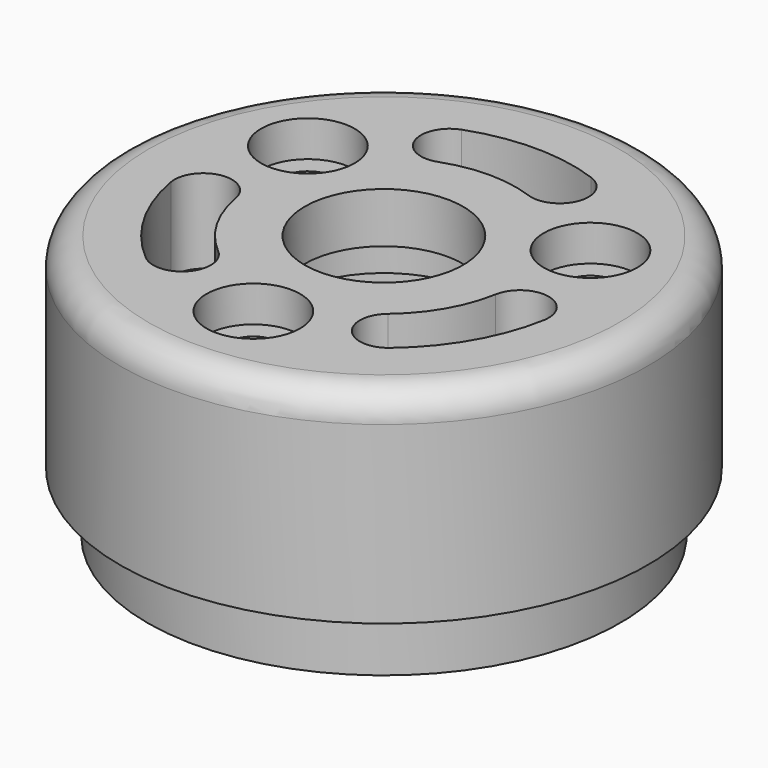
from build123d import *

# Parameters (mm, degrees)
SKETCH030_R             = 11
PAD011_DEPTH            = 8.5
SKETCH031_R             = 9.85
PAD012_DEPTH            = 2.5
SKETCH032_R             = 9
POCKET019_DEPTH         = 7.5
SKETCH033_R             = 1.95
POCKET020_DEPTH         = 1.5
FILLET010_R             = 1.2
SKETCH034_R             = 1.1
POCKET021_DEPTH         = 2
SKETCH035_R             = 3.3
POCKET022_DEPTH         = 3.5
SKETCH036_R             = 4.1
POCKET023_DEPTH         = 1.4
BODY011_PLACEMENT_ANGLE = 180.00001


with BuildPart() as part:
    # Sketch030 → Pad011 (new body)
    with BuildSketch(Plane.XY):
        Circle(SKETCH030_R)
    extrude(amount=PAD011_DEPTH)

    # Sketch031 (on Face3 of Pad011) → Pad012 (join)
    with BuildSketch(Plane.XY.offset(8.5)):
        Circle(SKETCH031_R)
    extrude(amount=PAD012_DEPTH)

    # Sketch032 (on Face5 of Pad012) → Pocket019 (cut)
    with BuildSketch(Plane.XY.offset(11)):
        Circle(SKETCH032_R)
    extrude(amount=-POCKET019_DEPTH, mode=Mode.SUBTRACT)

    # Sketch033 (on Face2 of Pocket019) → Pocket020 (cut)
    with BuildSketch(Plane(origin=(0, 0, 0), x_dir=(1, 0, 0), z_dir=(0, 0, -1))):
        with Locations((0, 6.8)):
            Circle(SKETCH033_R)
        with Locations((-5.8889727457, -3.4)):
            Circle(SKETCH033_R)
        with Locations((5.8889727457, -3.4)):
            Circle(SKETCH033_R)
    extrude(amount=-POCKET020_DEPTH, mode=Mode.SUBTRACT)

    # Fillet010
    fillet010_edges = [part.edges().sort_by_distance(p)[0] for p in [
        (-11, 0, 0),
    ]]
    fillet(fillet010_edges, radius=FILLET010_R)

    # Sketch034 (on Face11 of Fillet010) → Pocket021 (cut)
    with BuildSketch(Plane(origin=(0, 0, 1.5), x_dir=(1, 0, 0), z_dir=(0, 0, -1))):
        with Locations((-5.8889727457, -3.4)):
            Circle(SKETCH034_R)
        with Locations((0, 6.8)):
            Circle(SKETCH034_R)
        with Locations((5.8889727457, -3.4)):
            Circle(SKETCH034_R)
    extrude(amount=-POCKET021_DEPTH, mode=Mode.SUBTRACT)

    # Sketch035 (on Face4 of Pocket021) → Pocket022 (cut)
    with BuildSketch(Plane(origin=(0, 0, 0), x_dir=(1, 0, 0), z_dir=(0, 0, -1))):
        Circle(SKETCH035_R)
        with BuildLine():
            ThreePointArc((-3.5353318533, 4.2132444372), (-3.3874236532, 5.9038429005), (-5.0780221165, 6.0517511006))
            ThreePointArc((-5.0780221165, 6.0517511006), (-6.8416006899, 3.95), (-7.7799812488, 1.3718206036))
            ThreePointArc((-7.7799812488, 1.3718206036), (-6.8065897584, -0.0183265132), (-5.4164426416, 0.9550649772))
            ThreePointArc((-3.5353318533, 4.2132444372), (-4.7631397208, 2.75), (-5.4164426416, 0.9550649772))
        make_face()
        with BuildLine():
            ThreePointArc((5.0780221165, 6.0517511006), (3.3874236532, 5.9038429005), (3.5353318533, 4.2132444372))
            ThreePointArc((5.4164426416, 0.9550649772), (4.7631397208, 2.75), (3.5353318533, 4.2132444372))
            ThreePointArc((5.4164426416, 0.9550649772), (6.8065897584, -0.0183265132), (7.7799812488, 1.3718206036))
            ThreePointArc((7.7799812488, 1.3718206036), (6.8416006899, 3.95), (5.0780221165, 6.0517511006))
        make_face()
        with BuildLine():
            ThreePointArc((-1.8811107883, -5.1683094143), (-3.4191661052, -5.8855163873), (-2.7019591323, -7.4235717042))
            ThreePointArc((-2.7019591323, -7.4235717042), (0, -7.9), (2.7019591323, -7.4235717042))
            ThreePointArc((2.7019591323, -7.4235717042), (3.4191661052, -5.8855163873), (1.8811107883, -5.1683094143))
            ThreePointArc((-1.8811107883, -5.1683094143), (0, -5.5), (1.8811107883, -5.1683094143))
        make_face()
    extrude(amount=-POCKET022_DEPTH, mode=Mode.SUBTRACT)

    # Sketch036 (on Face23 of Pocket022) → Pocket023 (cut)
    with BuildSketch(Plane.XY.offset(3.5)):
        Circle(SKETCH036_R)
    extrude(amount=-POCKET023_DEPTH, mode=Mode.SUBTRACT)


with BuildPart() as part_1:
    # Body011 placement: moved
    add(part.part.moved(Location((2.3918e-06, 1e-05, 139.00003))).rotate(Axis((2.3918e-06, 1e-05, 139.00003), (0, 1, 0)), BODY011_PLACEMENT_ANGLE))


solid = part_1.part
